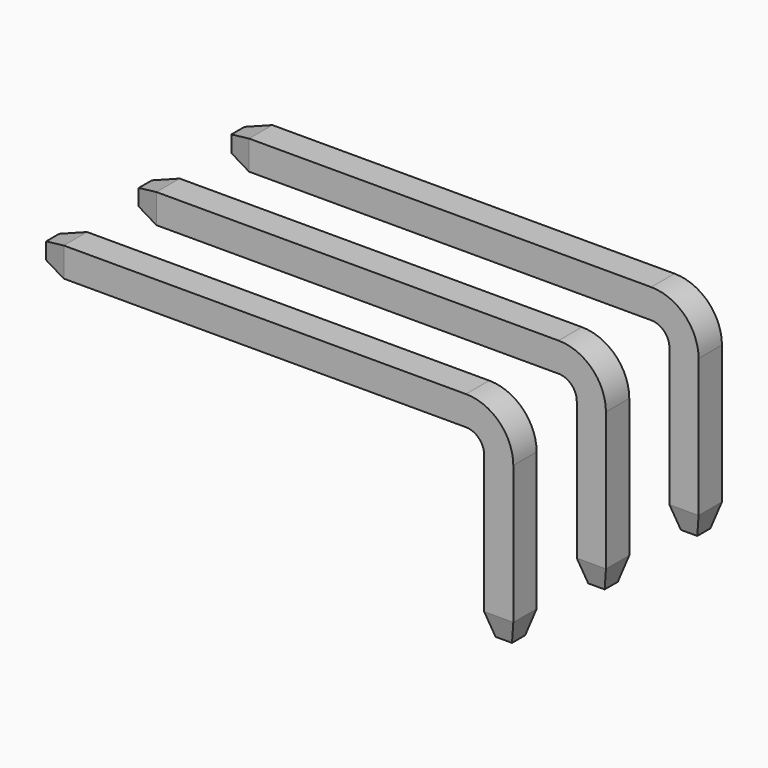
from build123d import *

# Parameters (mm, degrees)
SKETCH001_W       = 0.64
SKETCH001_H       = 0.64
SKETCH002_W       = 0.36
SKETCH002_H       = 0.36
LOFT_PITCH_ANGLE  = -90
CLONE_PITCH_ANGLE = 90
PAD_DEPTH         = 0.32
ARRAY_Y_COUNT     = 3
ARRAY_Y_PITCH     = 2.54


with BuildPart() as pin_end:
    # Sketch001 → Loft section 0
    with BuildSketch(Plane(origin=(-9.54, 0, 0), x_dir=(0, 0, -1), z_dir=(-1, 0, 0))):
        with Locations((-1.25, 0)):
            Rectangle(SKETCH001_W, SKETCH001_H)
    # Sketch002 → Loft section 1
    with BuildSketch(Plane(origin=(-10.04, 0, 0), x_dir=(0, 0, -1), z_dir=(-1, 0, 0))):
        with Locations((-1.25, 0)):
            Rectangle(SKETCH002_W, SKETCH002_H)
    loft()


with BuildPart() as pin_end_1:
    # Loft pitch: moved
    add(pin_end.part.rotate(Axis((0, 0, 0), (0, 1, 0)), LOFT_PITCH_ANGLE))


with BuildPart() as pin_end_2:
    # Loft placement: moved
    add(pin_end_1.part.moved(Location((1.25, 0, 7.04))))


with BuildPart() as pin_end2:
    # Clone base: copy of Pin-end
    add(pin_end_2.part)


with BuildPart() as pin_end2_1:
    # Clone pitch: moved
    add(pin_end2.part.rotate(Axis((0, 0, 0), (0, 1, 0)), CLONE_PITCH_ANGLE))


with BuildPart() as pin_end2_2:
    # Clone placement: moved
    add(pin_end2_1.part.moved(Location((-7.04, 0, 1.25))))


with BuildPart() as pins:
    # Sketch → Pad (new body, symmetric)
    with BuildSketch(Plane.XZ):
        with BuildLine():
            Line((0.32, 0.53), (0.32, -2.5))
            Line((0.32, -2.5), (-0.32, -2.5))
            Line((-0.32, -2.5), (-0.32, 0.53))
            ThreePointArc((-0.32, 0.53), (-0.437157, 0.812843), (-0.72, 0.93))
            Line((-0.72, 0.93), (-9.54, 0.93))
            Line((-9.54, 0.93), (-9.54, 1.57))
            Line((-9.54, 1.57), (-0.72, 1.57))
            ThreePointArc((0.32, 0.53), (0.015391, 1.265391), (-0.72, 1.57))
        make_face()
    extrude(amount=PAD_DEPTH, both=True)

    # Fusion: union Pin-end, Pin-end2
    add(pin_end_2.part)
    add(pin_end2_2.part)

    # Array Y: pins ×3


with BuildPart() as pins_1:
    add(pins.part)
    with Locations(*[(0, i * ARRAY_Y_PITCH, 0) for i in range(1, ARRAY_Y_COUNT)]):
        add(pins.part)


solid = pins_1.part
